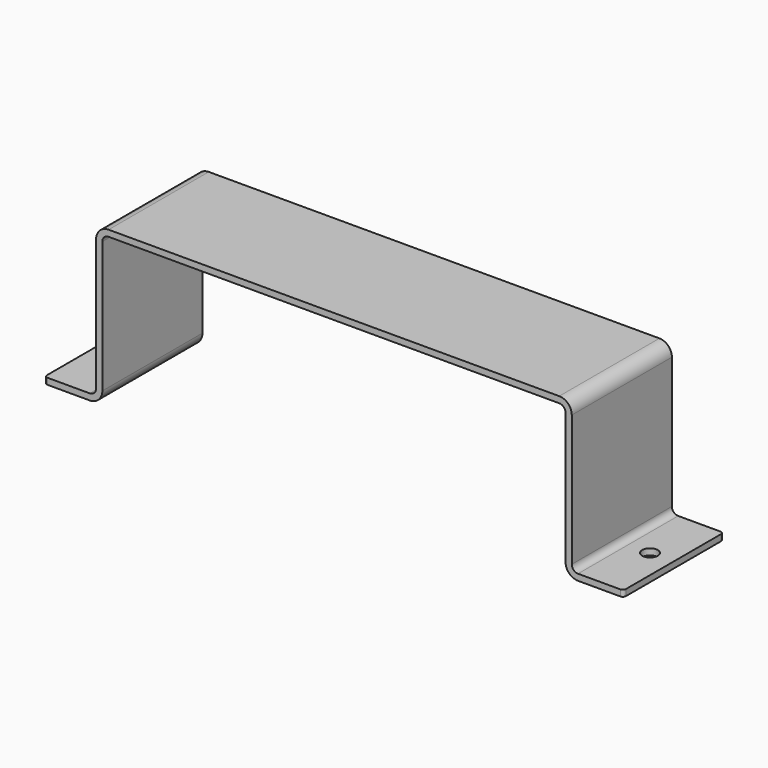
from build123d import *

# Parameters (mm, degrees)
F1_DEPTH = 20
F2_R     = 2.5
F3_DEPTH = 2.001
F4_R     = 1


with BuildPart() as f1:
    # F0 (on Front) → F1 (new body, symmetric)
    with BuildSketch(Plane.XZ):
        with BuildLine():
            Line((-92.5, 2), (-92.5, 0))
            Line((-92.5, 0), (-78, 0))
            ThreePointArc((-78, 0), (-75.171573, 1.171573), (-74, 4))
            Line((-74, 4), (-74, 46))
            ThreePointArc((-74, 46), (-73.414214, 47.414214), (-72, 48))
            Line((-72, 48), (0, 48))
            Line((0, 48), (72, 48))
            ThreePointArc((72, 48), (73.414214, 47.414214), (74, 46))
            Line((74, 46), (74, 4))
            ThreePointArc((74, 4), (75.171573, 1.171573), (78, 0))
            Line((78, 0), (92.5, 0))
            Line((92.5, 0), (92.5, 2))
            Line((92.5, 2), (78, 2))
            ThreePointArc((78, 2), (76.585786, 2.585786), (76, 4))
            Line((76, 4), (76, 46))
            ThreePointArc((76, 46), (74.828427, 48.828427), (72, 50))
            Line((72, 50), (0, 50))
            Line((0, 50), (-72, 50))
            ThreePointArc((-72, 50), (-74.828427, 48.828427), (-76, 46))
            Line((-76, 46), (-76, 4))
            ThreePointArc((-76, 4), (-76.585786, 2.585786), (-78, 2))
            Line((-78, 2), (-92.5, 2))
        make_face()
    extrude(amount=F1_DEPTH, both=True)

    # F2 (on face) → F3 (cut, through all)
    with BuildSketch(Plane.XY.offset(2)):
        with Locations((-85, 0)):
            Circle(F2_R)
        with Locations((85, 0)):
            Circle(F2_R)
    extrude(amount=-F3_DEPTH, mode=Mode.SUBTRACT)

    # F4
    f4_edges = [f1.edges().sort_by_distance(p)[0] for p in [
        (-92.5, -20, 1),
        (-92.5, 20, 1),
        (92.5, -20, 1),
        (92.5, 20, 1),
    ]]
    fillet(f4_edges, radius=F4_R)


solid = f1.part
